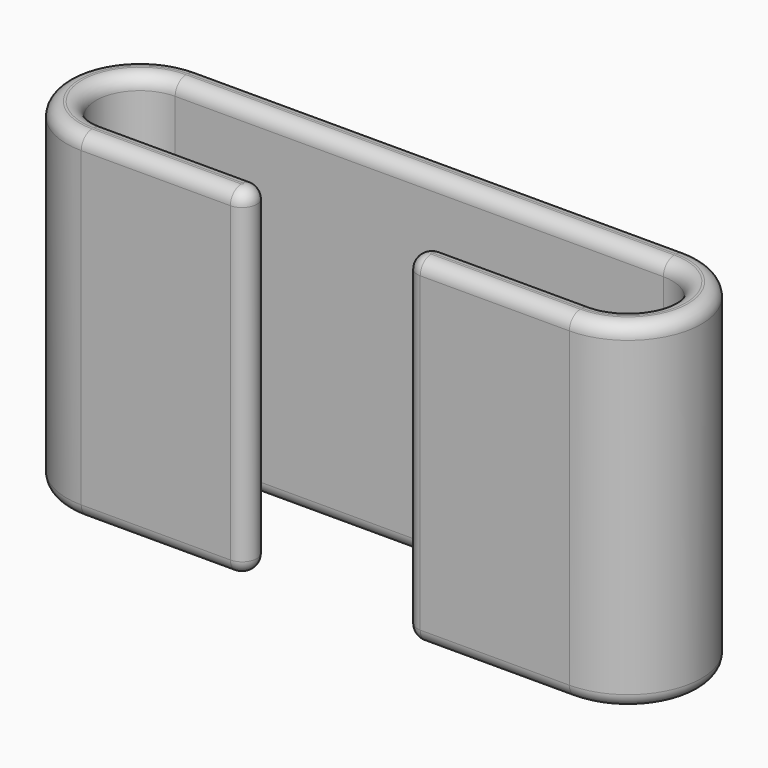
from build123d import *

# Parameters (mm, degrees)
F1_DEPTH = 25
F2_R     = 1


with BuildPart() as f1:
    # F0 (on Top) → F1 (new body)
    with BuildSketch(Plane.XY):
        with BuildLine():
            ThreePointArc((-18, 9.186661), (-21.25, 12.436661), (-18, 15.686661))
            Line((-18, 15.686661), (18, 15.686661))
            ThreePointArc((18, 15.686661), (21.25, 12.436661), (18, 9.186661))
            Line((18, 9.186661), (7, 9.186661))
            ThreePointArc((7, 9.186661), (5.92, 8.106661), (7, 7.026661))
            Line((7, 7.026661), (18, 7.026661))
            ThreePointArc((18, 7.026661), (23.41, 12.436661), (18, 17.846661))
            Line((18, 17.846661), (-18, 17.846661))
            ThreePointArc((-18, 17.846661), (-23.41, 12.436661), (-18, 7.026661))
            Line((-18, 7.026661), (-7, 7.026661))
            ThreePointArc((-7, 7.026661), (-5.92, 8.106661), (-7, 9.186661))
            Line((-7, 9.186661), (-18, 9.186661))
        make_face()
    extrude(amount=F1_DEPTH)

    # F2
    f2_edges = [f1.edges().sort_by_distance(p)[0] for p in [
        (0, 17.846661, 25),
        (0, 15.686661, 25),
        (21.25, 12.436661, 25),
        (23.41, 12.436661, 25),
        (12.5, 9.186661, 25),
        (12.5, 7.026661, 25),
        (5.92, 8.106661, 25),
        (-5.92, 8.106661, 25),
        (-21.25, 12.436661, 25),
        (-12.5, 9.186661, 25),
        (-12.5, 7.026661, 25),
        (-23.41, 12.436661, 25),
        (12.5, 7.026661, 0),
        (23.41, 12.436661, 0),
        (0, 17.846661, 0),
        (0, 15.686661, 0),
        (21.25, 12.436661, 0),
        (-12.5, 9.186661, 0),
        (-5.92, 8.106661, 0),
        (5.92, 8.106661, 0),
        (12.5, 9.186661, 0),
        (-23.41, 12.436661, 0),
        (-21.25, 12.436661, 0),
    ]]
    fillet(f2_edges, radius=F2_R)


solid = f1.part
